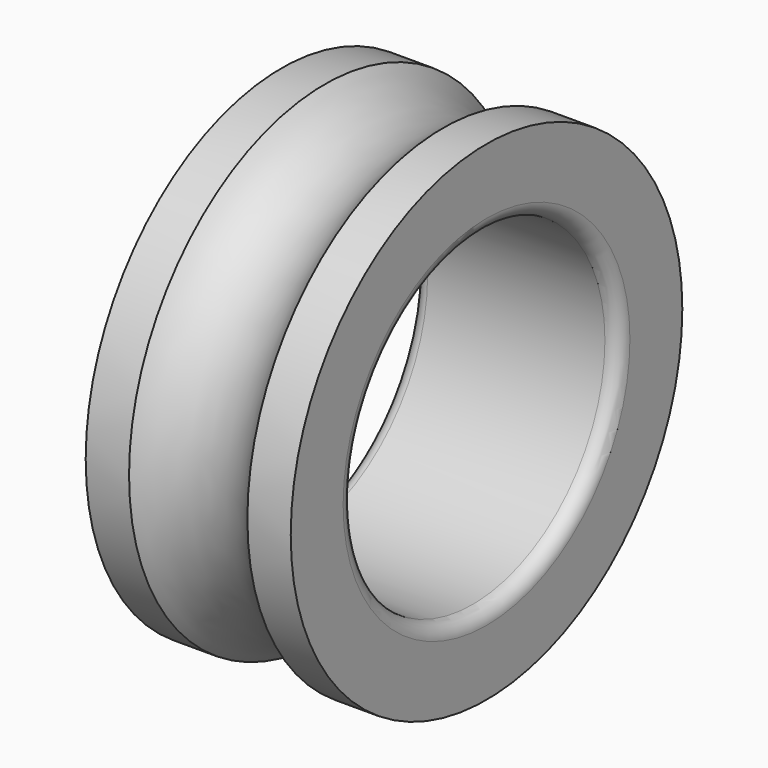
from build123d import *

# Parameters (mm, degrees)
F2_R = 2.1


with BuildPart() as f1:
    # F0 (on Top) → F1 (revolve)
    with BuildSketch(Plane.XY):
        with BuildLine():
            Line((-8.944272, 37), (-15.5, 37))
            Line((-15.5, 37), (-15.5, 25))
            Line((-15.5, 25), (15.5, 25))
            Line((15.5, 25), (15.5, 37))
            Line((15.5, 37), (8.944272, 37))
            ThreePointArc((8.944272, 37), (0, 33), (-8.944272, 37))
        make_face()
    revolve(axis=Axis((-1.149365, 0, 0), (1, 0, 0)))

    # F2
    f2_edges = [f1.edges().sort_by_distance(p)[0] for p in [
        (15.5, -25, 0),
        (-15.5, -25, 0),
    ]]
    fillet(f2_edges, radius=F2_R)


solid = f1.part
